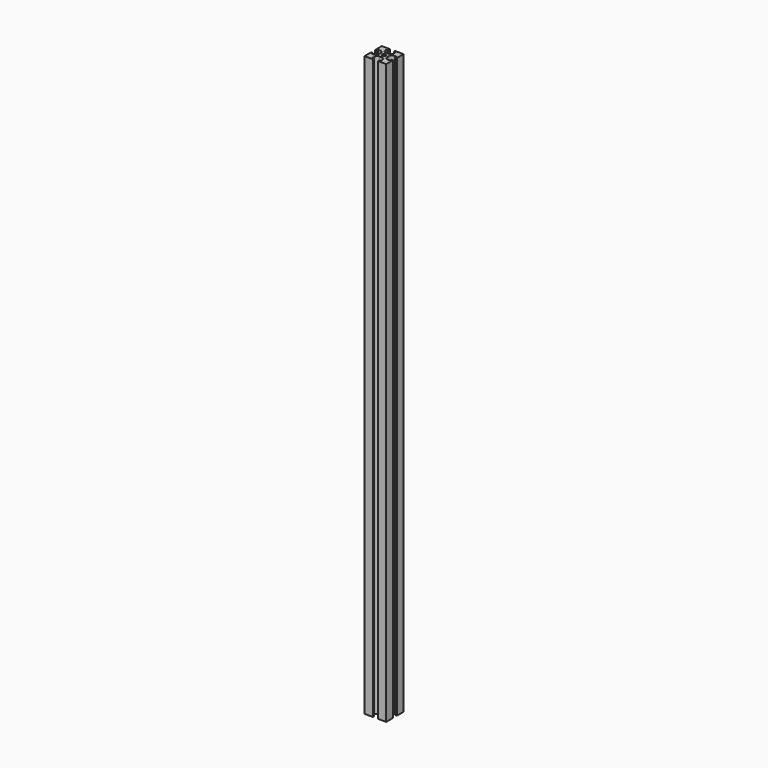
from build123d import *

# Parameters (mm, degrees)
F0_R     = 1.25
F0_W     = 1.1
F0_H     = 1.15
F0_W_2   = 1.15
F0_H_2   = 1.1
F1_DEPTH = 400


with BuildPart() as f1:
    # F0 (on Top) → F1 (new body)
    with BuildSketch(Plane.XY):
        with BuildLine():
            Line((-2.85, 7.5), (-7.5, 7.5))
            Line((-7.5, 7.5), (-7.5, 2.85))
            Line((-7.5, 2.85), (-6.4, 2.85))
            Line((-6.4, 2.85), (-4.8, 2.85))
            ThreePointArc((-4.8, 2.85), (-3.385786, 2.264214), (-2.8, 0.85))
            Line((-2.8, 0.85), (-2.8, -0.85))
            ThreePointArc((-2.8, -0.85), (-3.385786, -2.264214), (-4.8, -2.85))
            Line((-4.8, -2.85), (-6.4, -2.85))
            Line((-6.4, -2.85), (-7.5, -2.85))
            Line((-7.5, -2.85), (-7.5, -7.5))
            Line((-7.5, -7.5), (-2.85, -7.5))
            Line((-2.85, -7.5), (-2.85, -6.4))
            Line((-2.85, -6.4), (-2.85, -4.8))
            ThreePointArc((-2.85, -4.8), (-2.264214, -3.385786), (-0.85, -2.8))
            Line((-0.85, -2.8), (0.85, -2.8))
            ThreePointArc((0.85, -2.8), (2.264214, -3.385786), (2.85, -4.8))
            Line((2.85, -4.8), (2.85, -6.4))
            Line((2.85, -6.4), (2.85, -7.5))
            Line((2.85, -7.5), (7.5, -7.5))
            Line((7.5, -7.5), (7.5, -2.85))
            Line((7.5, -2.85), (6.4, -2.85))
            Line((6.4, -2.85), (4.8, -2.85))
            ThreePointArc((4.8, -2.85), (3.385786, -2.264214), (2.8, -0.85))
            Line((2.8, -0.85), (2.8, 0.85))
            ThreePointArc((2.8, 0.85), (3.385786, 2.264214), (4.8, 2.85))
            Line((4.8, 2.85), (6.4, 2.85))
            Line((6.4, 2.85), (7.5, 2.85))
            Line((7.5, 2.85), (7.5, 7.5))
            Line((7.5, 7.5), (2.85, 7.5))
            Line((2.85, 7.5), (2.85, 6.4))
            Line((2.85, 6.4), (2.85, 4.8))
            ThreePointArc((2.85, 4.8), (2.264214, 3.385786), (0.85, 2.8))
            Line((0.85, 2.8), (-0.85, 2.8))
            ThreePointArc((-0.85, 2.8), (-2.264214, 3.385786), (-2.85, 4.8))
            Line((-2.85, 4.8), (-2.85, 6.4))
            Line((-2.85, 6.4), (-2.85, 7.5))
        make_face()
        Circle(F0_R, mode=Mode.SUBTRACT)
        with Locations((-6.95, 2.275)):
            Rectangle(F0_W, F0_H)
        with Locations((-6.95, -2.275)):
            Rectangle(F0_W, F0_H)
        with Locations((-2.275, 6.95)):
            Rectangle(F0_W_2, F0_H_2)
        with Locations((2.275, 6.95)):
            Rectangle(F0_W_2, F0_H_2)
        with Locations((6.95, 2.275)):
            Rectangle(F0_W, F0_H)
        with Locations((6.95, -2.275)):
            Rectangle(F0_W, F0_H)
        with Locations((-2.275, -6.95)):
            Rectangle(F0_W_2, F0_H_2)
        with Locations((2.275, -6.95)):
            Rectangle(F0_W_2, F0_H_2)
    extrude(amount=F1_DEPTH)


solid = f1.part
